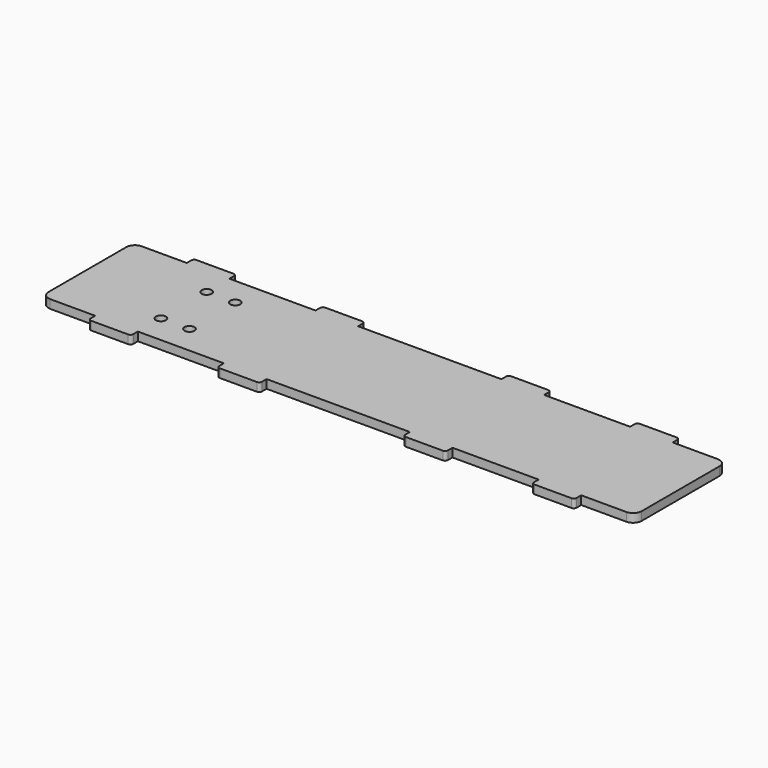
from build123d import *

# Parameters (mm, degrees)
SKETCH_R    = 1.75
PAD_DEPTH   = 3
FILLET_R    = 3
FILLET001_R = 1


with BuildPart() as part:
    # Sketch → Pad (new body)
    with BuildSketch(Plane.XY):
        Polygon((25.05, 23), (39.95, 23), (39.95, 20), (70.05, 20), (70.05, 23), (84.95, 23), (84.95, 20), (103.7, 20), (103.7, -20), (84.95, -20), (84.95, -23), (70.05, -23), (70.05, -20), (39.95, -20), (39.95, -23), (25.05, -23), (25.05, -20), (-25.05, -20), (-25.05, -23), (-39.95, -23), (-39.95, -20), (-70.05, -20), (-70.05, -23), (-84.95, -23), (-84.95, -20), (-103.7, -20), (-103.7, 20), (-84.95, 20), (-84.95, 23), (-70.05, 23), (-70.05, 20), (-39.95, 20), (-39.95, 23), (-25.05, 23), (-25.05, 20), (25.05, 20), align=None)
        with Locations((-70, 10)):
            Circle(SKETCH_R, mode=Mode.SUBTRACT)
        with Locations((-60, 10)):
            Circle(SKETCH_R, mode=Mode.SUBTRACT)
        with Locations((-70, -10)):
            Circle(SKETCH_R, mode=Mode.SUBTRACT)
        with Locations((-60, -10)):
            Circle(SKETCH_R, mode=Mode.SUBTRACT)
    extrude(amount=PAD_DEPTH)

    # Fillet
    fillet_edges = [part.edges().sort_by_distance(p)[0] for p in [
        (-103.7, 20, 1.5),
        (103.7, 20, 1.5),
        (103.7, -20, 1.5),
        (-103.7, -20, 1.5),
    ]]
    fillet(fillet_edges, radius=FILLET_R)

    # Fillet001
    fillet001_edges = [part.edges().sort_by_distance(p)[0] for p in [
        (-84.95, 23, 1.5),
        (-70.05, 23, 1.5),
        (-84.95, -23, 1.5),
        (-39.95, 23, 1.5),
        (-70.05, -23, 1.5),
        (-25.05, 23, 1.5),
        (-39.95, -23, 1.5),
        (25.05, 23, 1.5),
        (-25.05, -23, 1.5),
        (39.95, 23, 1.5),
        (25.05, -23, 1.5),
        (70.05, 23, 1.5),
        (39.95, -23, 1.5),
        (84.95, 23, 1.5),
        (70.05, -23, 1.5),
        (84.95, -23, 1.5),
    ]]
    fillet(fillet001_edges, radius=FILLET001_R)


solid = part.part
